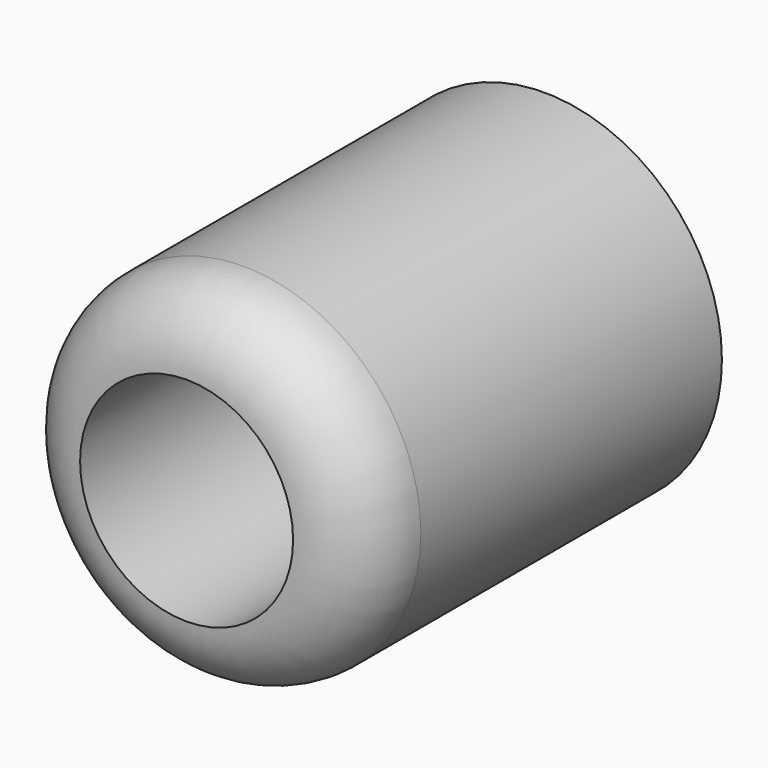
from build123d import *

# Parameters (mm, degrees)
F0_R     = 1.905
F1_DEPTH = 4.8006
F2_R     = 0.762
F4_D     = 2.286


with BuildPart() as f1:
    # F0 (on Front) → F1 (new body)
    with BuildSketch(Plane.XZ):
        with Locations((-14.547273, 10.377054)):
            Circle(F0_R)
    extrude(amount=-F1_DEPTH)

    # F2
    f2_edges = [f1.edges().sort_by_distance(p)[0] for p in [
        (-16.452273, 0, 10.377054),
    ]]
    fillet(f2_edges, radius=F2_R)

    # F4 (through all)
    with Locations(Plane.XZ):
        with Locations((-14.547273, 10.377054)):
            Hole(F4_D / 2)


solid = f1.part
